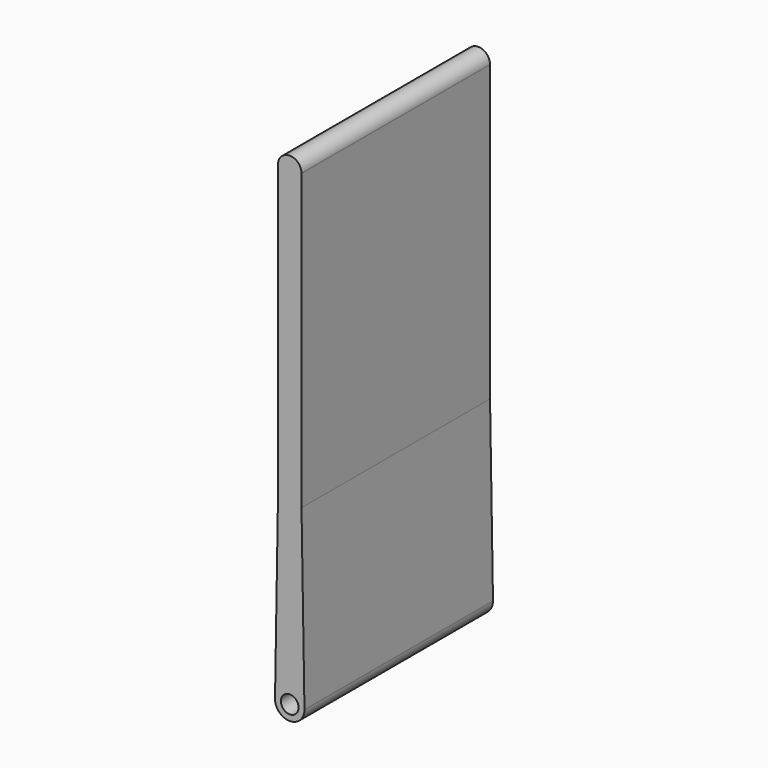
from build123d import *

# Parameters (mm, degrees)
F1_DEPTH = 1000


with BuildPart() as f1:
    # F0 (on Front) → F1 (new body)
    with BuildSketch(Plane.XZ):
        with BuildLine():
            ThreePointArc((62.491318868, 1.041665079), (7.939e-07, 62.5), (-62.4913188415, 1.0416666667))
            ThreePointArc((-62.4913188415, 1.0416666667), (-0.52085142, -62.4978296727), (62.5, 0))
            ThreePointArc((62.5, 0), (62.4978296793, 0.5208506261), (62.491318868, 1.041665079))
        make_face()
        with BuildLine():
            ThreePointArc((0, 37.5), (26.5165042945, 26.5165042945), (37.5, 0))
            ThreePointArc((37.5, 0), (-26.5165042945, -26.5165042945), (0, 37.5))
        make_face(mode=Mode.SUBTRACT)
        with BuildLine():
            Line((-49.9930550732, 750.8333333333), (-62.4913188415, 1.0416666667))
            ThreePointArc((-62.4913188415, 1.0416666667), (7.939e-07, 62.5), (62.491318868, 1.041665079))
            Line((62.491318868, 1.041665079), (49.9930550732, 750.8333333333))
            ThreePointArc((49.9930550732, 750.8333333333), (49.9982637382, 750.416681136), (50, 750))
            ThreePointArc((50, 750), (-0.416681136, 700.0017362618), (-49.9930550732, 750.8333333333))
        make_face()
        with BuildLine():
            Line((-49.9930550732, 1999.1666666667), (-49.9930550732, 750.8333333333))
            ThreePointArc((-49.9930550732, 750.8333333333), (0, 800), (49.9930550732, 750.8333333333))
            Line((49.9930550732, 750.8333333333), (49.9930550732, 1999.1666666667))
            ThreePointArc((49.9930550732, 1999.1666666667), (0, 1950), (-49.9930550732, 1999.1666666667))
        make_face()
        with BuildLine():
            ThreePointArc((49.9930550732, 750.8333333333), (0, 800), (-49.9930550732, 750.8333333333))
            ThreePointArc((-49.9930550732, 750.8333333333), (-0.416681136, 700.0017362618), (50, 750))
            ThreePointArc((50, 750), (49.9982637382, 750.416681136), (49.9930550732, 750.8333333333))
        make_face()
        with BuildLine():
            Line((-49.9930550732, 2000.8333333333), (-49.9930550732, 1999.1666666667))
            ThreePointArc((-49.9930550732, 1999.1666666667), (0, 1950), (49.9930550732, 1999.1666666667))
            Line((49.9930550732, 1999.1666666667), (49.9930550732, 2000.8333333333))
            ThreePointArc((49.9930550732, 2000.8333333333), (0, 2050), (-49.9930550732, 2000.8333333333))
        make_face()
        with BuildLine():
            ThreePointArc((-49.9930550732, 2000.8333333333), (-50, 2000), (-49.9930550732, 1999.1666666667))
            Line((-49.9930550732, 1999.1666666667), (-49.9930550732, 2000.8333333333))
        make_face()
        with BuildLine():
            Line((49.9930550732, 2000.8333333333), (49.9930550732, 1999.1666666667))
            ThreePointArc((49.9930550732, 1999.1666666667), (49.9982637382, 1999.583318864), (50, 2000))
            ThreePointArc((50, 2000), (49.9982637382, 2000.416681136), (49.9930550732, 2000.8333333333))
        make_face()
    extrude(amount=F1_DEPTH)


solid = f1.part
